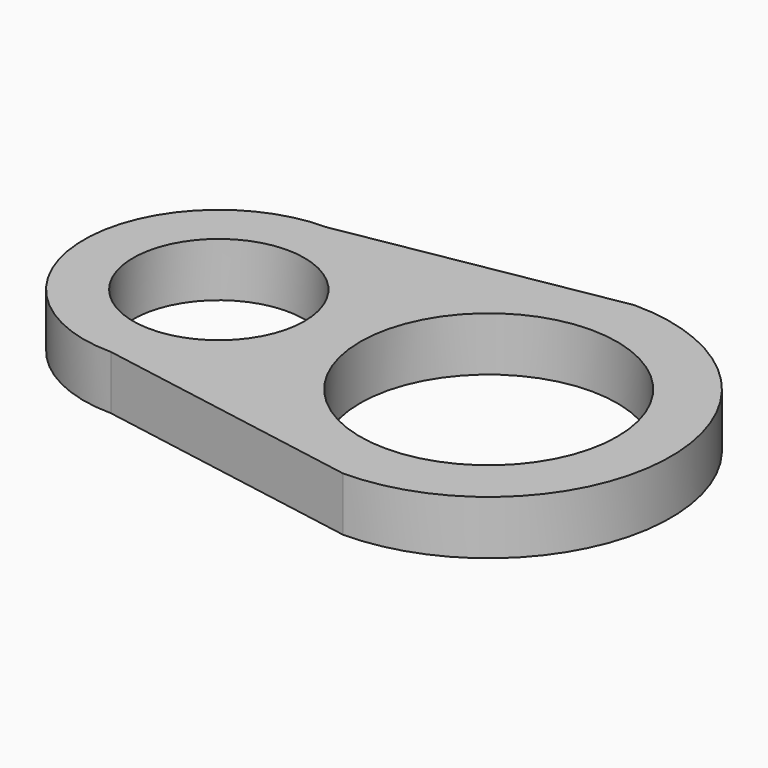
from build123d import *

# Parameters (mm, degrees)
F0_R     = 6.35
F0_R_2   = 9.525
F1_DEPTH = 4


with BuildPart() as f1:
    # F0 (on Top) → F1 (new body)
    with BuildSketch(Plane.XY):
        with BuildLine():
            Line((20, 13.5), (0, 10))
            ThreePointArc((0, 10), (-10, 0), (0, -10))
            Line((0, -10), (20, -13.5))
            ThreePointArc((20, -13.5), (33.5, 0), (20, 13.5))
        make_face()
        Circle(F0_R, mode=Mode.SUBTRACT)
        with Locations((20, 0)):
            Circle(F0_R_2, mode=Mode.SUBTRACT)
    extrude(amount=F1_DEPTH)


solid = f1.part
